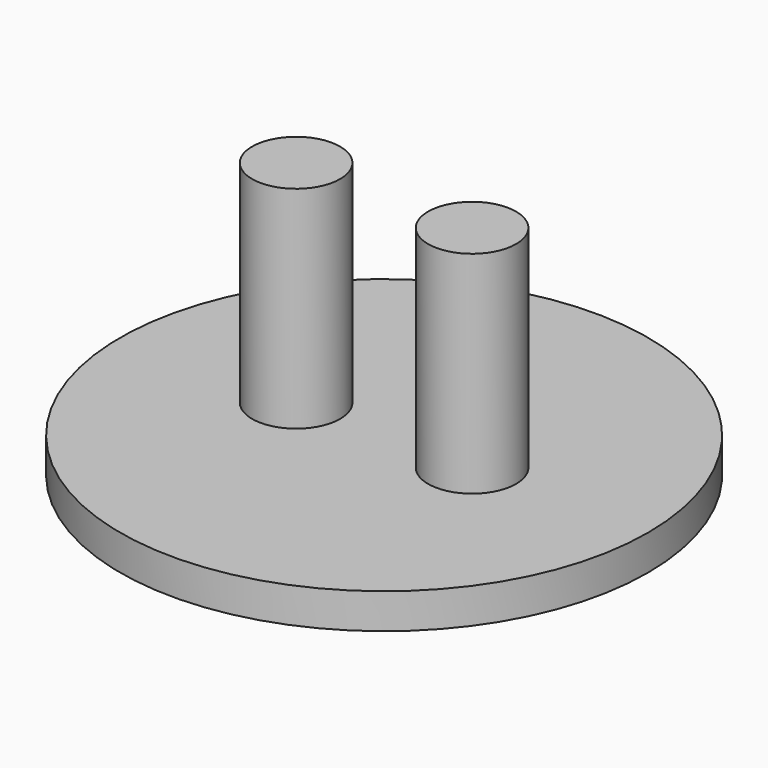
from build123d import *

# Parameters (mm, degrees)
F0_R     = 10
F1_DEPTH = 2
F2_R     = 15
F3_DEPTH = 2
F4_R     = 2.5
F5_DEPTH = 12


with BuildPart() as f1:
    # F0 (on Top) → F1 (new body)
    with BuildSketch(Plane.XY):
        Circle(F0_R)
    extrude(amount=F1_DEPTH)

    # F2 (on face) → F3 (join)
    with BuildSketch(Plane.XY.offset(2)):
        Circle(F2_R)
    extrude(amount=F3_DEPTH)

    # F4 (on face) → F5 (join)
    with BuildSketch(Plane.XY.offset(4)):
        with Locations((-5, 0)):
            Circle(F4_R)
        with Locations((5, 0)):
            Circle(F4_R)
    extrude(amount=F5_DEPTH)


solid = f1.part
